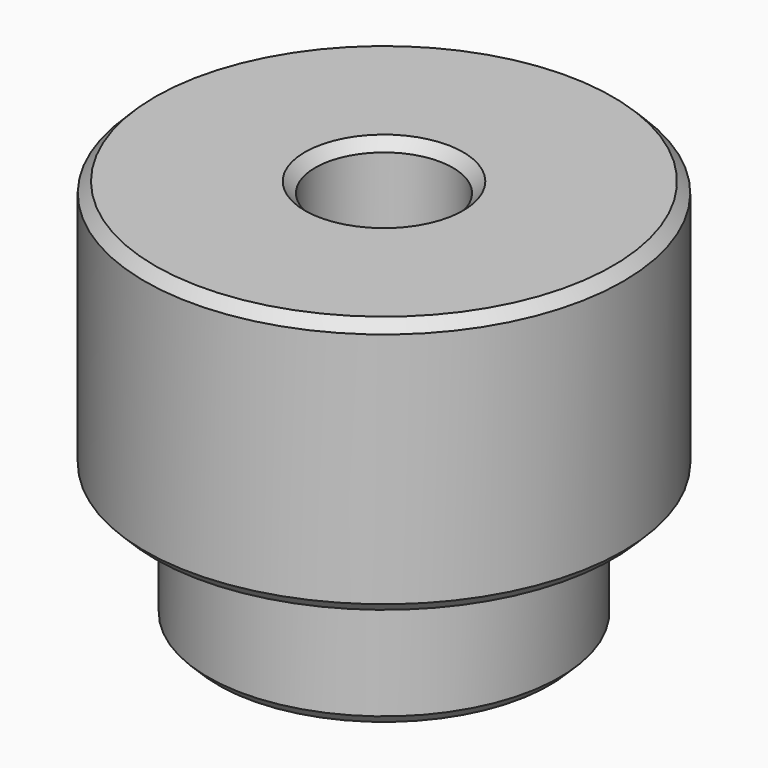
from build123d import *

# Parameters (mm, degrees)
CHAMFER_SIZE = 0.12


with BuildPart() as part:
    # Sketch → Revolution (revolve)
    with BuildSketch(Plane.XZ):
        Polygon((-2.78, 3), (-0.8, 3), (-0.8, -1.53), (-2.045, -1.53), (-2.045, 0), (-2.78, 0), align=None)
    revolve(axis=Axis((0, 0, 0), (0, 0, 1)))

    # Chamfer
    chamfer_edges = [part.edges().sort_by_distance(p)[0] for p in [
        (2.78, 0, 3),
        (0.8, 0, 3),
        (2.78, 0, 0),
        (2.045, 0, -1.53),
        (0.8, 0, -1.53),
    ]]
    chamfer(chamfer_edges, length=CHAMFER_SIZE)


solid = part.part
